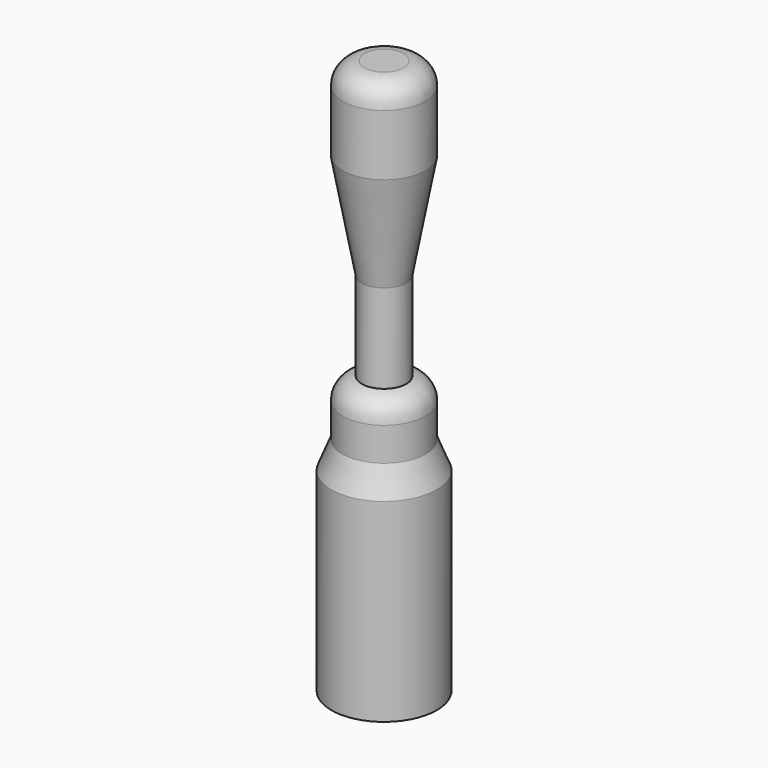
from build123d import *


with BuildPart() as f1:
    # F0 (on Front) → F1 (revolve)
    with BuildSketch(Plane.XZ):
        with BuildLine():
            Line((3.5, 0), (0, 0))
            Line((0, 0), (0, -100))
            Line((0, -100), (9.5, -100))
            Line((9.5, -100), (9.5, -65))
            Line((9.5, -65), (7.5, -60))
            Line((7.5, -60), (7.5, -53.968627))
            ThreePointArc((7.5, -53.968627), (6.5, -51.322876), (4, -50))
            Line((4, -50), (4, -34))
            Line((4, -34), (7.5, -15))
            Line((7.5, -15), (7.5, -4))
            ThreePointArc((7.5, -4), (6.328427, -1.171573), (3.5, 0))
        make_face()
    revolve(axis=Axis((0, 0, -50), (0, 0, 1)))


solid = f1.part
